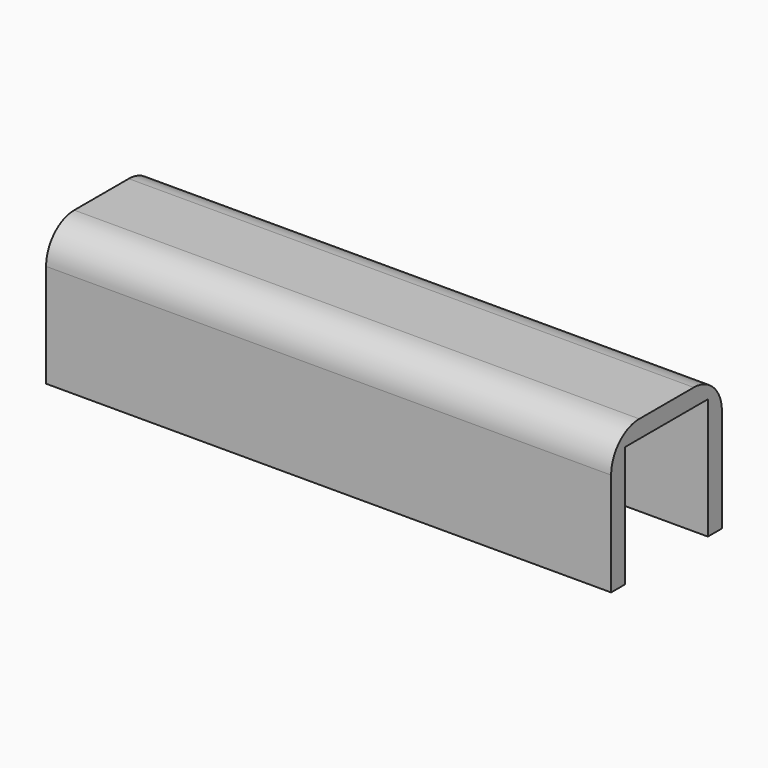
from build123d import *

# Parameters (mm, degrees)
F1_DEPTH = 51
F2_R     = 6.35


with BuildPart() as f1:
    # F0 (on Right) → F1 (new body, symmetric)
    with BuildSketch(Plane.YZ):
        Polygon((0, 25), (0, 0), (3.17, 0), (3.17, 21.83), (21.83, 21.83), (21.83, 0), (25, 0), (25, 25), align=None)
    extrude(amount=F1_DEPTH, both=True)

    # F2
    f2_edges = [f1.edges().sort_by_distance(p)[0] for p in [
        (0, 25, 25),
        (0, 0, 25),
    ]]
    fillet(f2_edges, radius=F2_R)


solid = f1.part
